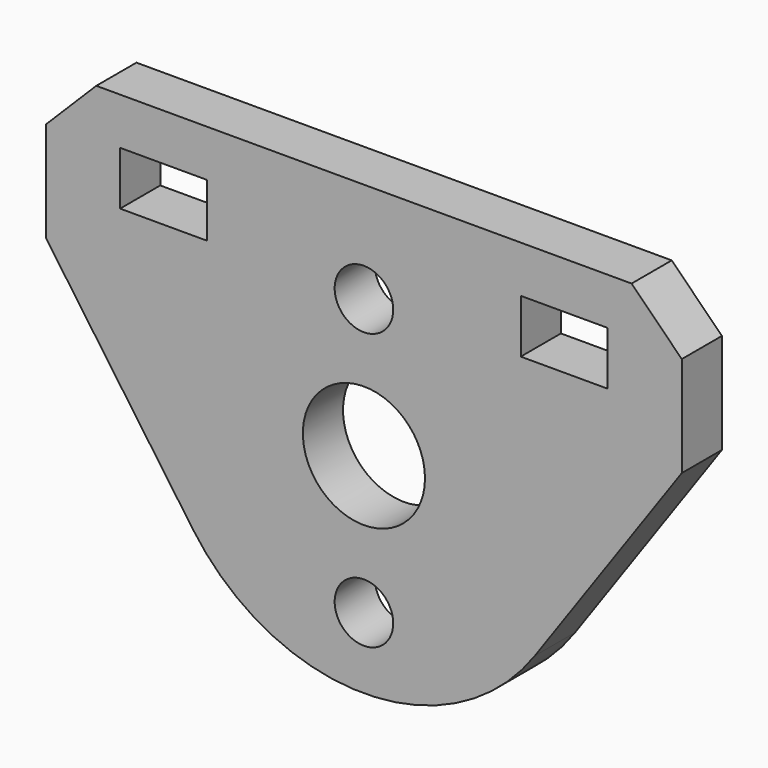
from build123d import *

# Parameters (mm, degrees)
SKETCH003_R             = 3.65
SKETCH003_W             = 5.2
SKETCH003_H             = 3.2
PAD003_DEPTH            = 3
SKETCH009_R             = 1.75
POCKET004_DEPTH         = 3.001
CHAMFER_SIZE            = 3
BODY002_PLACEMENT_ANGLE = 90


with BuildPart() as part:
    # Sketch003 → Pad003 (new body)
    with BuildSketch(Plane.XY):
        with BuildLine():
            Line((-19, 14.267973), (19, 14.267973))
            Line((19, 14.267973), (19, 5.267973))
            Line((19, 5.267973), (10.219447, -7.198118))
            ThreePointArc((-10.219436, -7.198133), (9e-06, -12.5), (10.219447, -7.198118))
            Line((-19, 5.267973), (-10.219436, -7.198133))
            Line((-19, 5.267973), (-19, 14.267973))
        make_face()
        Circle(SKETCH003_R, mode=Mode.SUBTRACT)
        with Locations((-11.975, 9.867973)):
            Rectangle(SKETCH003_W, SKETCH003_H, mode=Mode.SUBTRACT)
        with Locations((11.975, 9.867973)):
            Rectangle(SKETCH003_W, SKETCH003_H, mode=Mode.SUBTRACT)
    extrude(amount=PAD003_DEPTH)

    # Sketch009 (on Face17 of Pad003) → Pocket004 (cut, through all)
    with BuildSketch(Plane.XY.offset(3)):
        with Locations((0, 8.25)):
            Circle(SKETCH009_R)
        with Locations((0, -8.25)):
            Circle(SKETCH009_R)
    extrude(amount=-POCKET004_DEPTH, mode=Mode.SUBTRACT)

    # Chamfer
    chamfer_edges = [part.edges().sort_by_distance(p)[0] for p in [
        (-19, 14.267973, 1.5),
        (19, 14.267973, 1.5),
    ]]
    chamfer(chamfer_edges, length=CHAMFER_SIZE)


with BuildPart() as part_1:
    # Body002 placement: moved
    add(part.part.moved(Location((-67, -82, -8))).rotate(Axis((-67, -82, -8), (1, 0, 0)), BODY002_PLACEMENT_ANGLE))


solid = part_1.part
